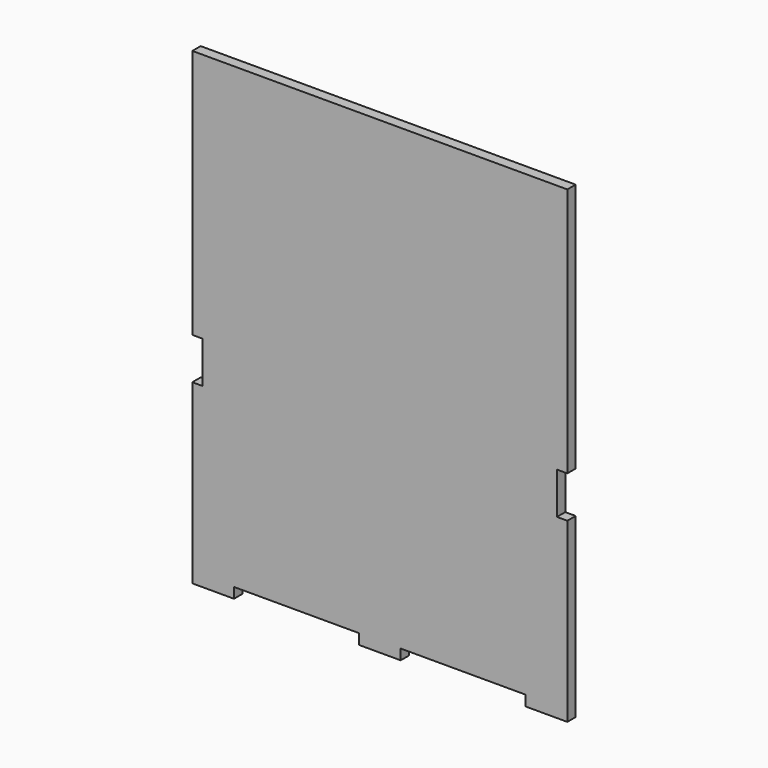
from build123d import *

# Parameters (mm, degrees)
F1_DEPTH = 12.7
F2_W     = 12.7
F2_H     = 50.8
F3_DEPTH = 25.4


with BuildPart() as f1:
    # F0 (on Front) → F1 (new body)
    with BuildSketch(Plane.XZ):
        Polygon((25.4, -273.285884), (177.8, -273.285884), (177.8, -285.985884), (228.6, -285.985884), (228.6, -273.285884), (228.6, 285.514116), (-228.6, 285.514116), (-228.6, -273.285884), (-228.6, -285.985884), (-177.8, -285.985884), (-177.8, -273.285884), (-25.4, -273.285884), (-25.4, -285.985884), (25.4, -285.985884), align=None)
    extrude(amount=F1_DEPTH)

    # F2 (on face) → F3 (cut)
    with BuildSketch(Plane.XZ.offset(12.7)):
        with Locations((-222.25, -44.685884)):
            Rectangle(F2_W, F2_H)
        with Locations((222.25, -44.685884)):
            Rectangle(F2_W, F2_H)
    extrude(amount=-F3_DEPTH, mode=Mode.SUBTRACT)


solid = f1.part
